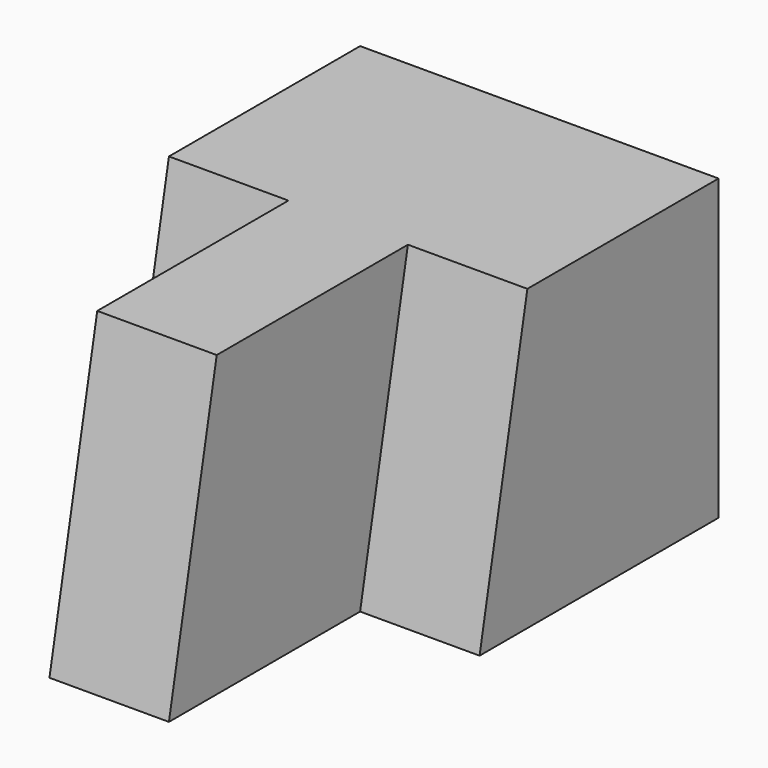
from build123d import *

# Parameters (mm, degrees)
F1_DEPTH = 31.75
F3_DEPTH = 12.7
F5_DEPTH = 12.7
F7_DEPTH = 12.7


with BuildPart() as f1:
    # F0 (on Top) → F1 (new body)
    with BuildSketch(Plane.XY):
        Polygon((0, 25.4), (0, 0), (12.7, 0), (12.7, 25.4), (25.4, 25.4), (25.4, 57.15), (-12.7, 57.15), (-12.7, 25.4), align=None)
    extrude(amount=F1_DEPTH)

    # F2 (on face) → F3 (cut)
    with BuildSketch(Plane(origin=(-12.7, 0, 0), x_dir=(0, -1, 0), z_dir=(-1, 0, 0))):
        Polygon((-31.75, 31.75), (-25.4, 0), (-25.4, 31.75), align=None)
    extrude(amount=-F3_DEPTH, mode=Mode.SUBTRACT)

    # F4 (on face) → F5 (cut)
    with BuildSketch(Plane.YZ.offset(25.4)):
        Polygon((25.4, 31.75), (25.4, 0), (31.75, 31.75), align=None)
    extrude(amount=-F5_DEPTH, mode=Mode.SUBTRACT)

    # F6 (on face) → F7 (cut)
    with BuildSketch(Plane.YZ.offset(12.7)):
        Polygon((0, 31.75), (0, 0), (6.35, 31.75), align=None)
    extrude(amount=-F7_DEPTH, mode=Mode.SUBTRACT)


solid = f1.part
